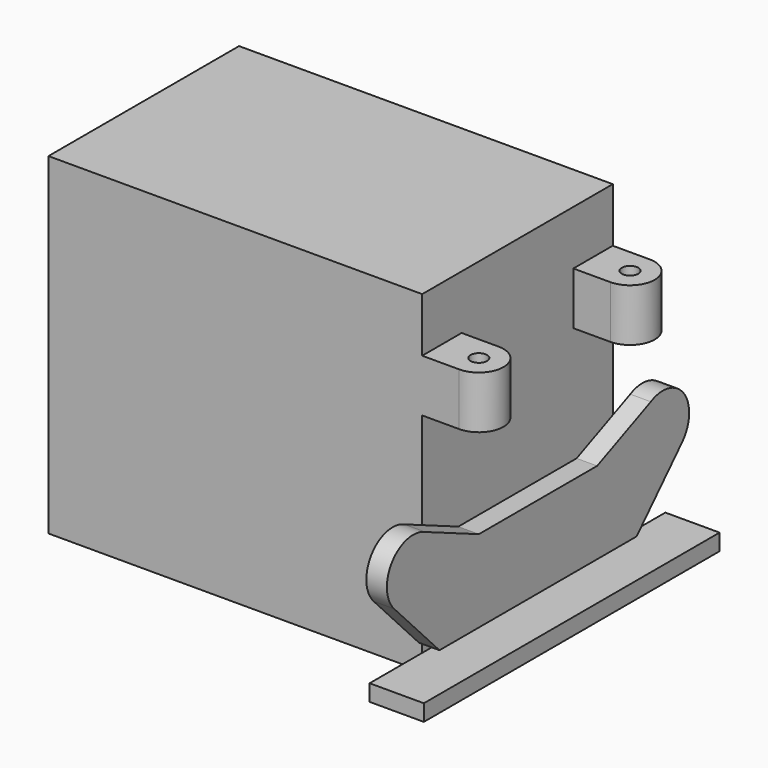
from build123d import *

# Parameters (mm, degrees)
SKETCH_W        = 53
SKETCH_H        = 29
PAD_DEPTH       = 40.45
SKETCH001_W     = 29
SKETCH001_H     = 6.6
SKETCH001_H_2   = 27.45
POCKET_DEPTH    = 7.5
SKETCH002_R     = 1
POCKET001_DEPTH = 6.5
PAD001_DEPTH    = 2.5
SKETCH004_W     = 45
SKETCH004_H     = 2
PAD002_DEPTH    = 6.6


with BuildPart() as part:
    # Sketch → Pad (new body)
    with BuildSketch(Plane.XY):
        with Locations((-26.5, 0)):
            Rectangle(SKETCH_W, SKETCH_H)
    extrude(amount=PAD_DEPTH)

    # Sketch001 → Pocket (cut)
    with BuildSketch(Plane.YZ):
        with Locations((0, 37.15)):
            Rectangle(SKETCH001_W, SKETCH001_H)
        with Locations((0, 13.725)):
            Rectangle(SKETCH001_W, SKETCH001_H_2)
    extrude(amount=-POCKET_DEPTH, mode=Mode.SUBTRACT)

    # Sketch002 → Pocket001 (cut)
    with BuildSketch(Plane.XY.offset(33.85)):
        with Locations((-3, -11.5)):
            Circle(SKETCH002_R)
        with Locations((-3, 11.5)):
            Circle(SKETCH002_R)
        with BuildLine():
            Line((-3, 8.5), (-7.5, 8.5))
            Line((-7.5, 8.5), (-7.5, -8.5))
            Line((-7.5, -8.5), (-3, -8.5))
            ThreePointArc((-3, -14.5), (0, -11.5), (-3, -8.5))
            Line((-3, -14.5), (2, -14.5))
            Line((2, -14.5), (2, 14.5))
            Line((2, 14.5), (-3, 14.5))
            ThreePointArc((-3, 8.5), (0, 11.5), (-3, 14.5))
        make_face()
    extrude(amount=-POCKET001_DEPTH, mode=Mode.SUBTRACT)

    # Sketch003 → Pad001 (new body)
    with BuildSketch(Plane.YZ.offset(-7.5)):
        with BuildLine():
            Line((-21.896552, 10.541379), (-15, 3.3))
            Line((-15, 3.3), (15, 3.3))
            Line((15, 3.3), (21.896552, 10.541379))
            ThreePointArc((21.896552, 10.541379), (22.201473, 15.698034), (17.167124, 16.855357))
            Line((9, 13.3), (17.167124, 16.855357))
            Line((-9, 13.3), (9, 13.3))
            Line((-17.167124, 16.855357), (-9, 13.3))
            ThreePointArc((-17.167124, 16.855357), (-22.201473, 15.698034), (-21.896552, 10.541379))
        make_face()
    extrude(amount=PAD001_DEPTH)

    # Sketch004 → Pad002 (new body)
    with BuildSketch(Plane.YZ.offset(-7.5)):
        with Locations((0, 1)):
            Rectangle(SKETCH004_W, SKETCH004_H)
    extrude(amount=PAD002_DEPTH)


solid = part.part
